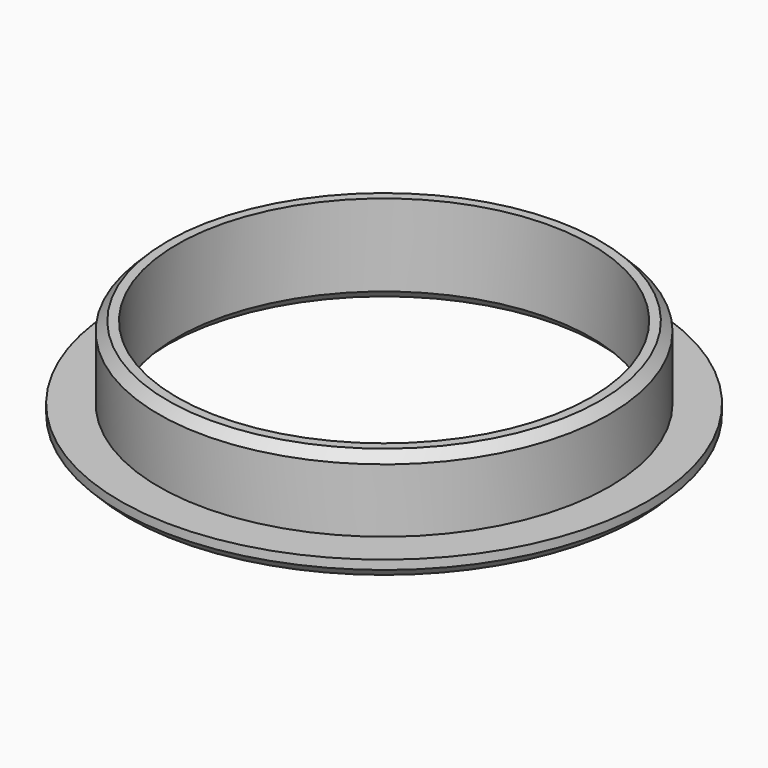
from build123d import *

# Parameters (mm, degrees)
F0_R     = 24.75
F0_R_2   = 22.75
F1_DEPTH = 10
F2_R     = 29
F2_R_2   = 22.75
F3_DEPTH = 2
F4_SIZE  = 1


with BuildPart() as f1:
    # F0 (on Top) → F1 (new body)
    with BuildSketch(Plane.XY):
        Circle(F0_R)
        Circle(F0_R_2, mode=Mode.SUBTRACT)
    extrude(amount=F1_DEPTH)

    # F2 (on Top) → F3 (join)
    with BuildSketch(Plane.XY):
        Circle(F2_R)
        Circle(F2_R_2, mode=Mode.SUBTRACT)
    extrude(amount=F3_DEPTH)

    # F4
    f4_edges = [f1.edges().sort_by_distance(p)[0] for p in [
        (-29, 0, 0),
        (-22.75, 0, 0),
        (-24.75, 0, 10),
    ]]
    chamfer(f4_edges, length=F4_SIZE)


solid = f1.part
